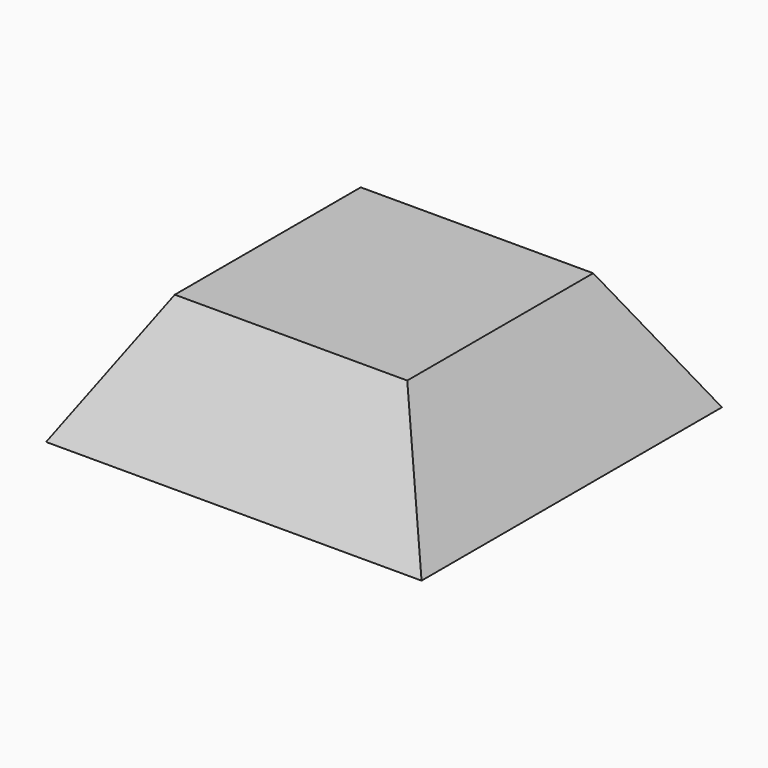
from build123d import *

# Parameters (mm, degrees)
F0_W     = 154
F0_H     = 154
F1_DEPTH = 50.8
F1_TAPER = 30
F2_T     = -2.54


with BuildPart() as f1:
    # F0 (on Top) → F1 (new body)
    with BuildSketch(Plane.XY):
        Rectangle(F0_W, F0_H)
    extrude(amount=F1_DEPTH, taper=F1_TAPER)

    # F2
    f2_openings = [f1.faces().sort_by_distance(p)[0] for p in [
        (0, 0, 0),
    ]]
    offset(amount=F2_T, openings=f2_openings)


solid = f1.part
